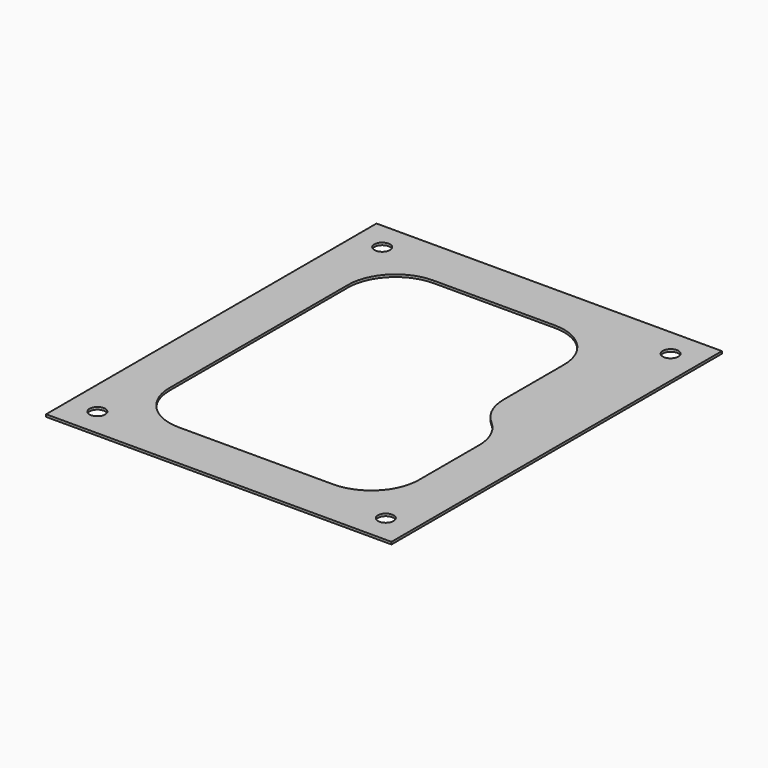
from build123d import *

# Parameters (mm, degrees)
F0_W     = 145.5
F0_H     = 174
F1_DEPTH = 1
F3_D     = 6.6


with BuildPart() as f1:
    # F0 (on Top) → F1 (new body)
    with BuildSketch(Plane.XY):
        Rectangle(F0_W, F0_H)
        with BuildLine():
            Line((-52.75, -47), (-52.75, 47))
            ThreePointArc((-52.75, 47), (-46.8921356237, 61.1421356237), (-32.75, 67))
            Line((-32.75, 67), (18.25, 67))
            ThreePointArc((18.25, 67), (32.3921356237, 61.1421356237), (38.25, 47))
            Line((38.25, 47), (38.25, 15.1986841536))
            ThreePointArc((38.25, 15.1986841536), (40.0840978754, 6.8320838882), (45.25, 0))
            ThreePointArc((45.25, 0), (50.4159021246, -6.8320838882), (52.25, -15.1986841536))
            Line((52.25, -15.1986841536), (52.25, -47))
            ThreePointArc((52.25, -47), (46.3921356237, -61.1421356237), (32.25, -67))
            Line((32.25, -67), (-32.75, -67))
            ThreePointArc((-32.75, -67), (-46.8921356237, -61.1421356237), (-52.75, -47))
        make_face(mode=Mode.SUBTRACT)
    extrude(amount=F1_DEPTH)

    # F3 (through all)
    with Locations(Plane.XY.offset(1)):
        with Locations((-60.75, 75), (60.75, 75), (60.75, -75), (-60.75, -75)):
            Hole(F3_D / 2)


solid = f1.part
